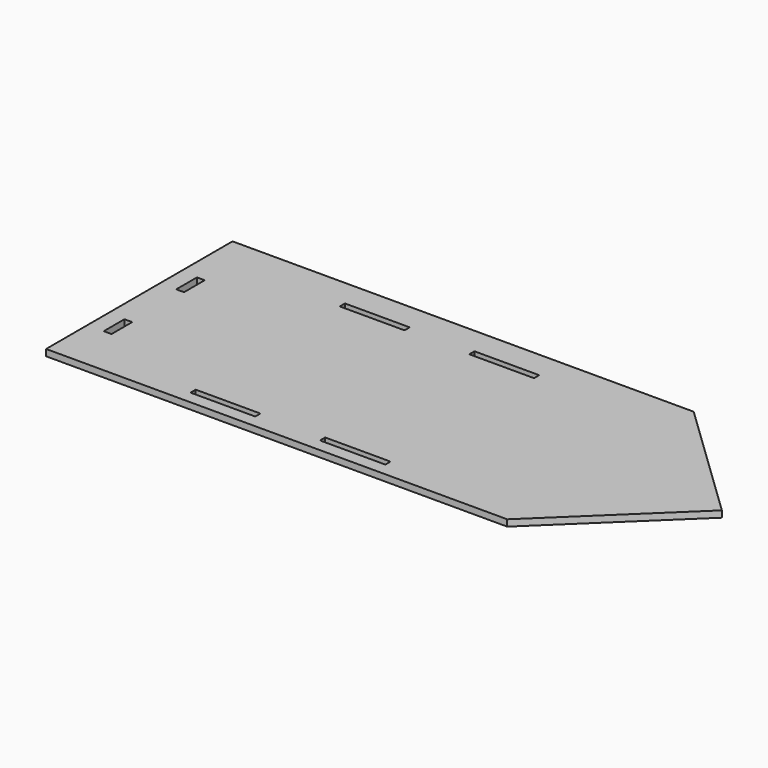
from build123d import *

# Parameters (mm, degrees)
F0_W     = 13716
F0_H     = 5486.4
F0_W_2   = 1524
F0_H_2   = 152.4
F0_W_3   = 182.88
F0_H_3   = 609.6
F0_W_4   = 1538.336823
F1_DEPTH = 152.4
F3_DEPTH = 152.401


with BuildPart() as f1:
    # F0 (on Top) → F1 (new body)
    with BuildSketch(Plane.XY):
        with Locations((6472.35126, 2590.8)):
            Rectangle(F0_W, F0_H)
        with Locations((3535.68, 225.146553)):
            Rectangle(F0_W_2, F0_H_2, mode=Mode.SUBTRACT)
        with Locations((91.44, 1366.931669)):
            Rectangle(F0_W_3, F0_H_3, mode=Mode.SUBTRACT)
        with Locations((6590.848411, 225.146553)):
            Rectangle(F0_W_4, F0_H_2, mode=Mode.SUBTRACT)
        with Locations((91.44, 3500.531669)):
            Rectangle(F0_W_3, F0_H_3, mode=Mode.SUBTRACT)
        with Locations((3535.68, 4618.866435)):
            Rectangle(F0_W_2, F0_H_2, mode=Mode.SUBTRACT)
        with Locations((6583.68, 4618.866435)):
            Rectangle(F0_W_2, F0_H_2, mode=Mode.SUBTRACT)
    extrude(amount=F1_DEPTH)

    # F2 (on face) → F3 (cut, through all)
    with BuildSketch(Plane.XY.offset(152.4)):
        Polygon((13330.35126, -152.4), (13330.35126, 2590.8), (10471.073812, -152.4), align=None)
        Polygon((10471.073812, 5334), (13330.35126, 2590.8), (13330.35126, 5334), align=None)
    extrude(amount=-F3_DEPTH, mode=Mode.SUBTRACT)


solid = f1.part
